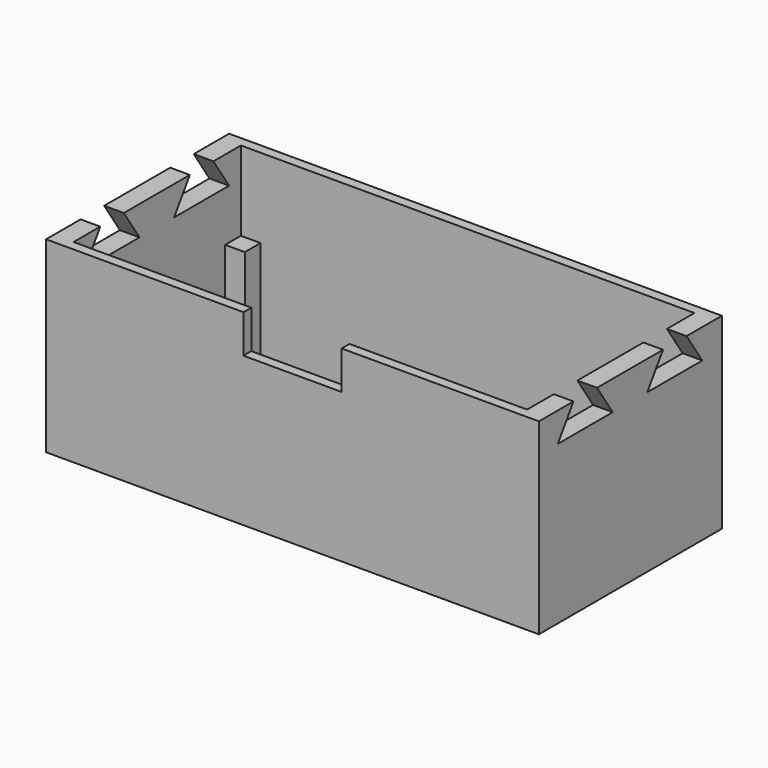
from build123d import *

# Parameters (mm, degrees)
F0_W     = 46.2
F0_H     = 21.3
F1_DEPTH = 19.1
F0_R     = 8
F2_DEPTH = 1
F3_W     = 10
F3_H     = 0.0997345659
F3_H_2   = 3.9002654341
F4_DEPTH = 4
F6_DEPTH = 28
F7_W     = 2
F7_H     = 2
F8_DEPTH = 10


with BuildPart() as f1:
    # F0 (on Top) → F1 (new body)
    with BuildSketch(Plane.XY):
        Polygon((24.1, 11.65), (-24.1, 11.65), (-25.1, 11.65), (-25.1, -11.65), (-24.1, -11.65), (24.4, -11.65), (25.1, -11.65), (25.1, 11.65), align=None)
        Rectangle(F0_W, F0_H, mode=Mode.SUBTRACT)
    extrude(amount=F1_DEPTH)

    # F0 (on Top) → F2 (join)
    with BuildSketch(Plane.XY):
        Rectangle(F0_W, F0_H)
        with Locations((-13.1, 0)):
            Circle(F0_R, mode=Mode.SUBTRACT)
        with BuildLine():
            ThreePointArc((21.1, 0), (13.1, -8), (5.1, 0))
            ThreePointArc((5.1, 0), (13.1, 8), (21.1, 0))
        make_face(mode=Mode.SUBTRACT)
    extrude(amount=F2_DEPTH)

    # F3 (on face) → F4 (cut)
    with BuildSketch(Plane.XZ.offset(11.65)):
        with Locations((0, 19.1498672829)):
            Rectangle(F3_W, F3_H)
        with Locations((0, 17.1498672829)):
            Rectangle(F3_W, F3_H_2)
    extrude(amount=-F4_DEPTH, mode=Mode.SUBTRACT)

    # F5 (on Right) → F6 (cut, symmetric)
    with BuildSketch(Plane.YZ):
        Polygon((9.15, 16.1), (7.15, 19.1), (4.15, 19.1), (2.15, 16.1), align=None)
        Polygon((-2.25, 16.1), (-4.25, 19.1), (-7.25, 19.1), (-9.25, 16.1), align=None)
    extrude(amount=F6_DEPTH, both=True, mode=Mode.SUBTRACT)

    # F7 (on face) → F8 (join)
    with BuildSketch(Plane.XY.offset(1)):
        with Locations((-22.1, 9.65)):
            Rectangle(F7_W, F7_H)
        with Locations((-22.1, -9.65)):
            Rectangle(F7_W, F7_H)
        with Locations((22.1, -9.65)):
            Rectangle(F7_W, F7_H)
        with Locations((22.1, 9.65)):
            Rectangle(F7_W, F7_H)
    extrude(amount=F8_DEPTH)


solid = f1.part
